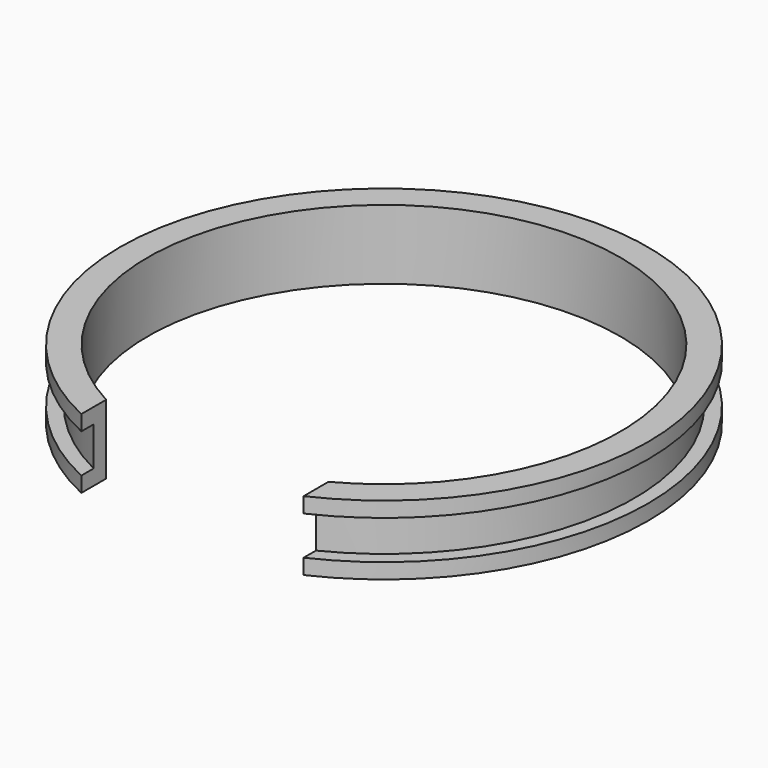
from build123d import *

# Parameters (mm, degrees)
F0_R     = 30.1625
F0_R_2   = 26.9875
F1_DEPTH = 3.96875
F2_R     = 36.329519
F2_R_2   = 28.575
F3_DEPTH = 2.2225
F4_W     = 25.4
F4_H     = 40.857697
F5_DEPTH = 12.7


with BuildPart() as f1:
    # F0 (on Top) → F1 (new body, symmetric)
    with BuildSketch(Plane.XY):
        Circle(F0_R)
        Circle(F0_R_2, mode=Mode.SUBTRACT)
    extrude(amount=F1_DEPTH, both=True)

    # F2 (on Top) → F3 (cut, symmetric)
    with BuildSketch(Plane.XY):
        Circle(F2_R)
        Circle(F2_R_2, mode=Mode.SUBTRACT)
    extrude(amount=F3_DEPTH, both=True, mode=Mode.SUBTRACT)

    # F4 (on Top) → F5 (cut, symmetric)
    with BuildSketch(Plane.XY):
        with Locations((0, -20.428848)):
            Rectangle(F4_W, F4_H)
    extrude(amount=F5_DEPTH, both=True, mode=Mode.SUBTRACT)


solid = f1.part
